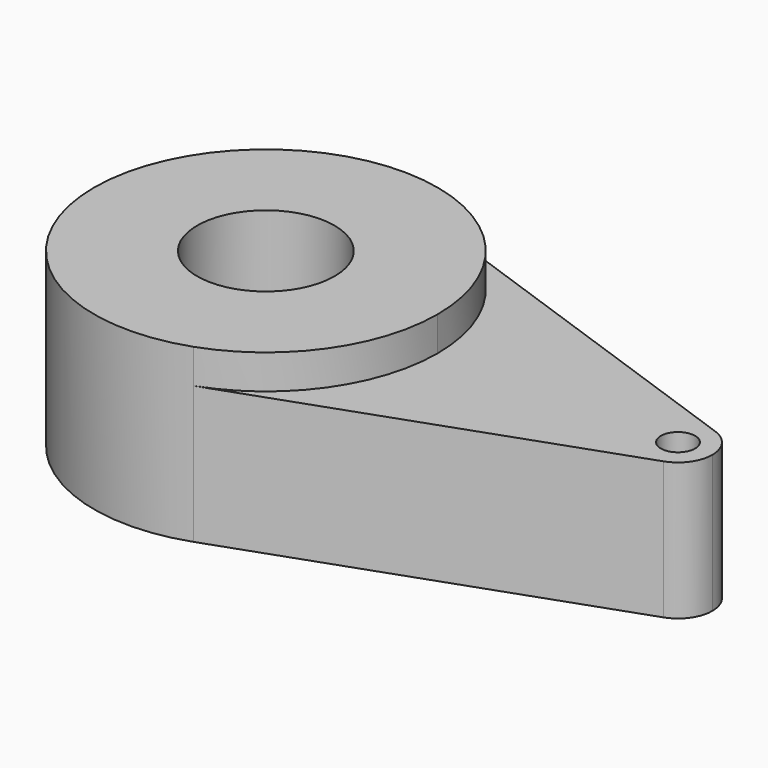
from build123d import *

# Parameters (mm, degrees)
F0_R     = 10
F0_R_2   = 2.5
F1_DEPTH = 20
F2_DEPTH = 25


with BuildPart() as f1:
    # F0 (on Top) → F1 (new body)
    with BuildSketch(Plane.XY):
        with BuildLine():
            ThreePointArc((8.333333, -23.570226), (20.412415, -14.433757), (25, 0))
            ThreePointArc((25, 0), (20.412415, 14.433757), (8.333333, 23.570226))
            ThreePointArc((8.333333, 23.570226), (-25, 0), (8.333333, -23.570226))
        make_face()
        Circle(F0_R, mode=Mode.SUBTRACT)
        with BuildLine():
            ThreePointArc((8.333333, 23.570226), (20.412415, 14.433757), (25, 0))
            ThreePointArc((25, 0), (20.412415, -14.433757), (8.333333, -23.570226))
            Line((8.333333, -23.570226), (61.666667, -4.714045))
            ThreePointArc((61.666667, -4.714045), (55, 0), (61.666667, 4.714045))
            Line((61.666667, 4.714045), (8.333333, 23.570226))
        make_face()
        with BuildLine():
            ThreePointArc((65, 0), (64.082483, 2.886751), (61.666667, 4.714045))
            ThreePointArc((61.666667, 4.714045), (55, 0), (61.666667, -4.714045))
            ThreePointArc((61.666667, -4.714045), (64.082483, -2.886751), (65, 0))
        make_face()
        with Locations((60, 0)):
            Circle(F0_R_2, mode=Mode.SUBTRACT)
    extrude(amount=F1_DEPTH)

    # F0 (on Top) → F2 (join)
    with BuildSketch(Plane.XY):
        with BuildLine():
            ThreePointArc((8.333333, -23.570226), (20.412415, -14.433757), (25, 0))
            ThreePointArc((25, 0), (20.412415, 14.433757), (8.333333, 23.570226))
            ThreePointArc((8.333333, 23.570226), (-25, 0), (8.333333, -23.570226))
        make_face()
        Circle(F0_R, mode=Mode.SUBTRACT)
    extrude(amount=F2_DEPTH)


solid = f1.part
